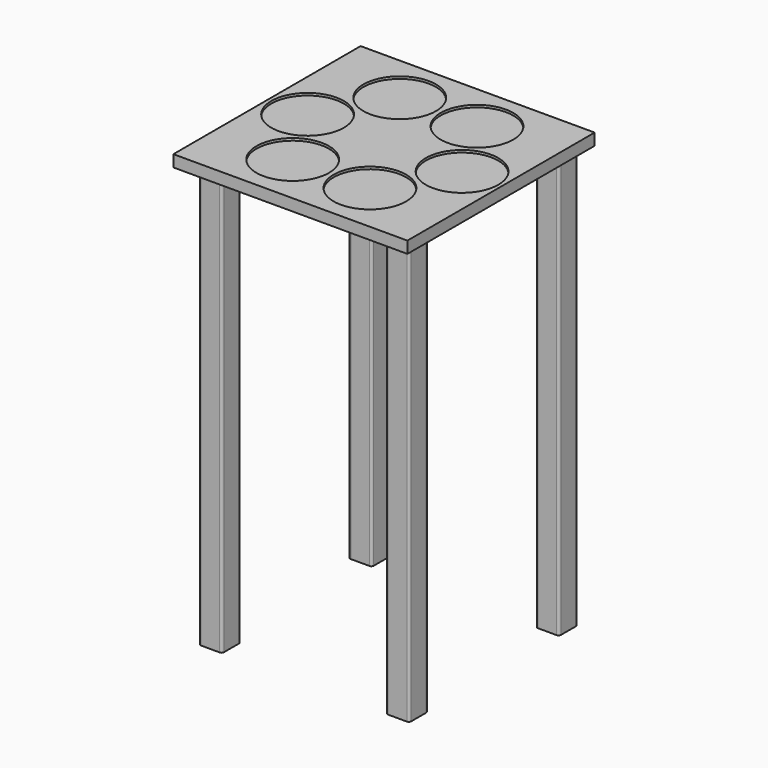
from build123d import *

# Parameters (mm, degrees)
F0_W     = 500
F0_H     = 500
F0_R     = 77.5
F1_DEPTH = 25
F2_DEPTH = 5
F4_DEPTH = 900


with BuildPart() as f1:
    # F0 (on Top) → F1 (new body)
    with BuildSketch(Plane.XY):
        with Locations((0, -2.197117)):
            Rectangle(F0_W, F0_H)
        with Locations((-82.5, -142.894192)):
            Circle(F0_R, mode=Mode.SUBTRACT)
        with Locations((82.5, -142.894192)):
            Circle(F0_R, mode=Mode.SUBTRACT)
        with Locations((-165, 0)):
            Circle(F0_R, mode=Mode.SUBTRACT)
        with Locations((-82.5, 142.894192)):
            Circle(F0_R, mode=Mode.SUBTRACT)
        with Locations((165, 0)):
            Circle(F0_R, mode=Mode.SUBTRACT)
        with Locations((82.5, 142.894192)):
            Circle(F0_R, mode=Mode.SUBTRACT)
        with Locations((-82.5, 142.894192)):
            Circle(F0_R)
        with Locations((82.5, 142.894192)):
            Circle(F0_R)
        with Locations((165, 0)):
            Circle(F0_R)
        with Locations((-165, 0)):
            Circle(F0_R)
        with Locations((-82.5, -142.894192)):
            Circle(F0_R)
        with Locations((82.5, -142.894192)):
            Circle(F0_R)
    extrude(amount=-F1_DEPTH)

    # F0 (on Top) → F2 (cut)
    with BuildSketch(Plane.XY):
        with Locations((-82.5, 142.894192)):
            Circle(F0_R)
        with Locations((82.5, 142.894192)):
            Circle(F0_R)
        with Locations((165, 0)):
            Circle(F0_R)
        with Locations((82.5, -142.894192)):
            Circle(F0_R)
        with Locations((-82.5, -142.894192)):
            Circle(F0_R)
        with Locations((-165, 0)):
            Circle(F0_R)
    extrude(amount=-F2_DEPTH, mode=Mode.SUBTRACT)

    # F3 (on face) → F4 (join)
    with BuildSketch(Plane(origin=(0, 0, -25), x_dir=(1, 0, 0), z_dir=(0, 0, -1))):
        with BuildLine():
            ThreePointArc((225, 172.197117), (228.535534, 173.661583), (230, 177.197117))
            Line((230, 177.197117), (230, 217.197117))
            ThreePointArc((230, 217.197117), (228.535534, 220.732651), (225, 222.197117))
            Line((225, 222.197117), (185, 222.197117))
            ThreePointArc((185, 222.197117), (181.464466, 220.732651), (180, 217.197117))
            Line((180, 217.197117), (180, 177.197117))
            ThreePointArc((180, 177.197117), (181.464466, 173.661583), (185, 172.197117))
            Line((185, 172.197117), (225, 172.197117))
        make_face()
        with BuildLine():
            ThreePointArc((-175, 172.197117), (-171.464466, 173.661583), (-170, 177.197117))
            Line((-170, 177.197117), (-170, 217.197117))
            ThreePointArc((-170, 217.197117), (-171.464466, 220.732651), (-175, 222.197117))
            Line((-175, 222.197117), (-215, 222.197117))
            ThreePointArc((-215, 222.197117), (-218.535534, 220.732651), (-220, 217.197117))
            Line((-220, 217.197117), (-220, 177.197117))
            ThreePointArc((-220, 177.197117), (-218.535534, 173.661583), (-215, 172.197117))
            Line((-215, 172.197117), (-175, 172.197117))
        make_face()
        with BuildLine():
            ThreePointArc((-175, -227.802883), (-171.464466, -226.338417), (-170, -222.802883))
            Line((-170, -222.802883), (-170, -182.802883))
            ThreePointArc((-170, -182.802883), (-171.464466, -179.267349), (-175, -177.802883))
            Line((-175, -177.802883), (-215, -177.802883))
            ThreePointArc((-215, -177.802883), (-218.535534, -179.267349), (-220, -182.802883))
            Line((-220, -182.802883), (-220, -222.802883))
            ThreePointArc((-220, -222.802883), (-218.535534, -226.338417), (-215, -227.802883))
            Line((-215, -227.802883), (-175, -227.802883))
        make_face()
        with BuildLine():
            Line((185, -227.802883), (225, -227.802883))
            ThreePointArc((225, -227.802883), (228.535534, -226.338417), (230, -222.802883))
            Line((230, -222.802883), (230, -182.802883))
            ThreePointArc((230, -182.802883), (228.535534, -179.267349), (225, -177.802883))
            Line((225, -177.802883), (185, -177.802883))
            ThreePointArc((185, -177.802883), (181.464466, -179.267349), (180, -182.802883))
            Line((180, -182.802883), (180, -222.802883))
            ThreePointArc((180, -222.802883), (181.464466, -226.338417), (185, -227.802883))
        make_face()
    extrude(amount=F4_DEPTH)


solid = f1.part
